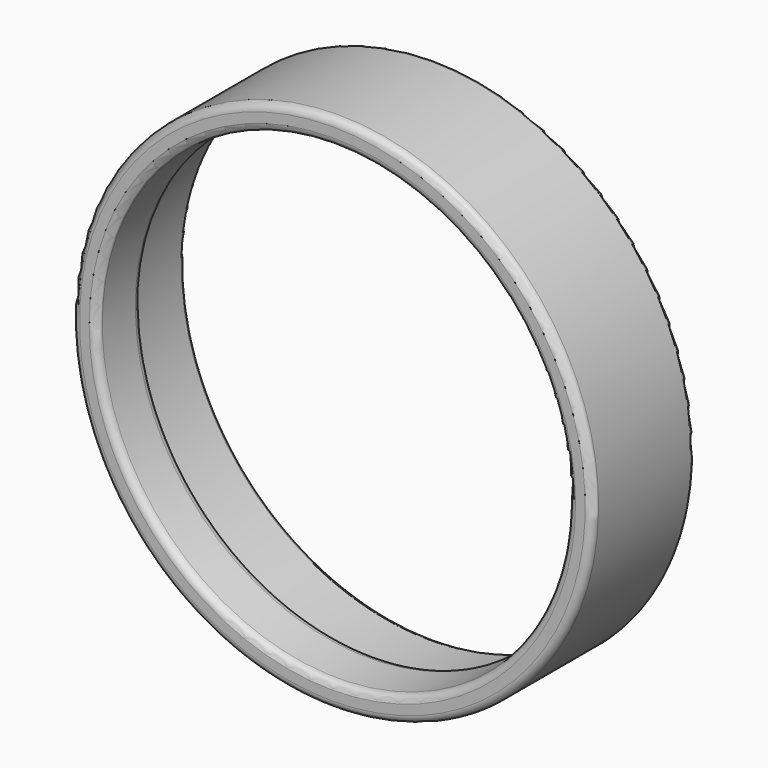
from build123d import *


with BuildPart() as f1:
    # F0 (on Right) → F1 (revolve)
    with BuildSketch(Plane.YZ):
        with BuildLine():
            Line((8, 34.95), (-7.5, 34.95))
            ThreePointArc((-7.5, 34.95), (-8.207107, 34.657107), (-8.5, 33.95))
            Line((-8.5, 33.95), (-8.5, 32.648965))
            ThreePointArc((-8.5, 32.648965), (-8.225374, 31.96061), (-7.552336, 31.650335))
            Line((-7.552336, 31.650335), (-2.352336, 31.377815))
            ThreePointArc((-2.352336, 31.377815), (-1.611645, 31.65107), (-1.3, 32.376444))
            Line((-1.3, 32.376444), (-1.3, 33.5))
            Line((-1.3, 33.5), (8, 33.5))
            ThreePointArc((8, 33.5), (8.353553, 33.646447), (8.5, 34))
            Line((8.5, 34), (8.5, 34.45))
            ThreePointArc((8.5, 34.45), (8.353553, 34.803553), (8, 34.95))
        make_face()
    revolve(axis=Axis((0, -1.514213, 0), (0, 1, 0)))


solid = f1.part
